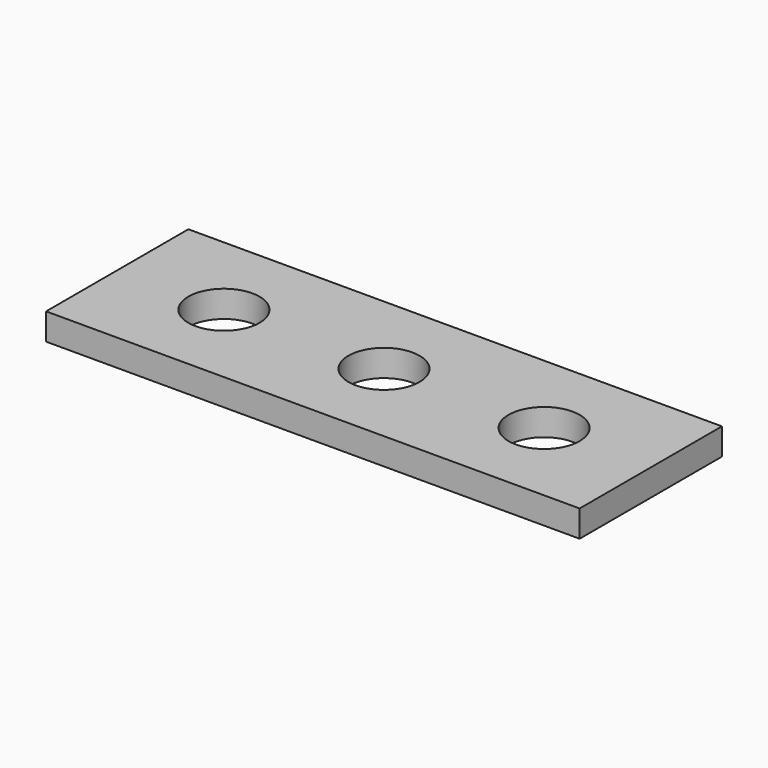
from build123d import *

# Parameters (mm, degrees)
F0_W     = 10
F0_H     = 10
F0_R     = 2
F1_DEPTH = 1.5


with BuildPart() as f1:
    # F0 (on Top) → F1 (new body)
    with BuildSketch(Plane.XY):
        with Locations((-10, 0)):
            Rectangle(F0_W, F0_H)
        with Locations((-9, 0)):
            Circle(F0_R, mode=Mode.SUBTRACT)
        with Locations((10, 0)):
            Rectangle(F0_W, F0_H)
        with Locations((9, 0)):
            Circle(F0_R, mode=Mode.SUBTRACT)
        Rectangle(F0_W, F0_H)
        Circle(F0_R, mode=Mode.SUBTRACT)
    extrude(amount=F1_DEPTH)


solid = f1.part
